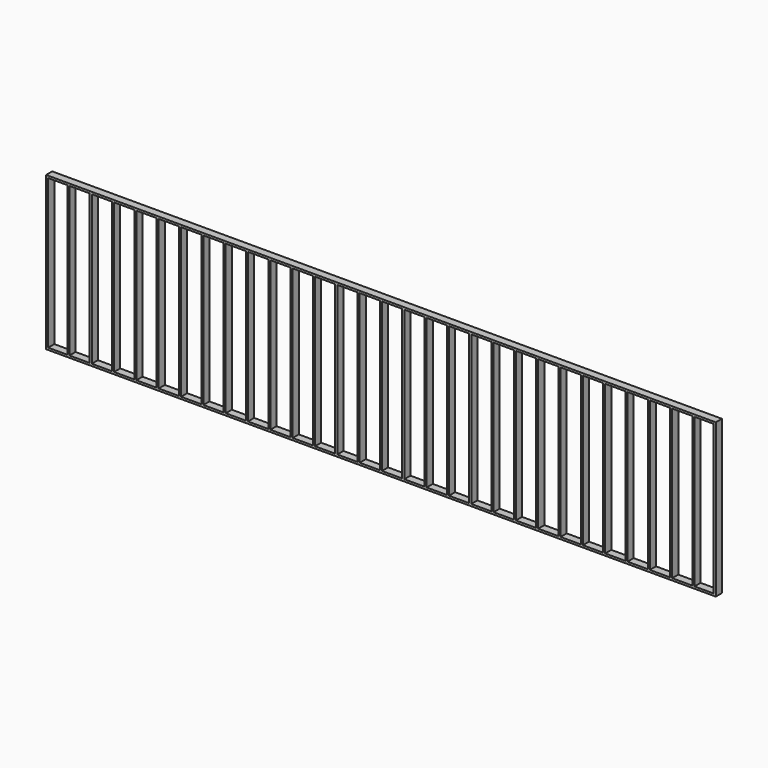
from build123d import *

# Parameters (mm, degrees)
F0_W     = 349.25
F0_H     = 2717.8
F0_W_2   = 368.3
F1_DEPTH = 139.7


with BuildPart() as f1:
    # F0 (on Front) → F1 (new body)
    with BuildSketch(Plane.XZ):
        Polygon((-6096, 1397), (-6096, -1397), (-2863.85, -1397), (-2825.75, -1397), (6096, -1397), (6096, 1397), align=None)
        with Locations((-5883.275, 0)):
            Rectangle(F0_W, F0_H, mode=Mode.SUBTRACT)
        with Locations((-5486.4, 0)):
            Rectangle(F0_W_2, F0_H, mode=Mode.SUBTRACT)
        with Locations((-5080, 0)):
            Rectangle(F0_W_2, F0_H, mode=Mode.SUBTRACT)
        with Locations((-4673.6, 0)):
            Rectangle(F0_W_2, F0_H, mode=Mode.SUBTRACT)
        with Locations((-4267.2, 0)):
            Rectangle(F0_W_2, F0_H, mode=Mode.SUBTRACT)
        with Locations((-3860.8, 0)):
            Rectangle(F0_W_2, F0_H, mode=Mode.SUBTRACT)
        with Locations((-3454.4, 0)):
            Rectangle(F0_W_2, F0_H, mode=Mode.SUBTRACT)
        with Locations((-3048, 0)):
            Rectangle(F0_W_2, F0_H, mode=Mode.SUBTRACT)
        with Locations((-2641.6, 0)):
            Rectangle(F0_W_2, F0_H, mode=Mode.SUBTRACT)
        with Locations((-2235.2, 0)):
            Rectangle(F0_W_2, F0_H, mode=Mode.SUBTRACT)
        with Locations((-1828.8, 0)):
            Rectangle(F0_W_2, F0_H, mode=Mode.SUBTRACT)
        with Locations((-1422.4, 0)):
            Rectangle(F0_W_2, F0_H, mode=Mode.SUBTRACT)
        with Locations((-1016, 0)):
            Rectangle(F0_W_2, F0_H, mode=Mode.SUBTRACT)
        with Locations((-609.6, 0)):
            Rectangle(F0_W_2, F0_H, mode=Mode.SUBTRACT)
        with Locations((-203.2, 0)):
            Rectangle(F0_W_2, F0_H, mode=Mode.SUBTRACT)
        with Locations((203.2, 0)):
            Rectangle(F0_W_2, F0_H, mode=Mode.SUBTRACT)
        with Locations((609.6, 0)):
            Rectangle(F0_W_2, F0_H, mode=Mode.SUBTRACT)
        with Locations((1016, 0)):
            Rectangle(F0_W_2, F0_H, mode=Mode.SUBTRACT)
        with Locations((1422.4, 0)):
            Rectangle(F0_W_2, F0_H, mode=Mode.SUBTRACT)
        with Locations((1828.8, 0)):
            Rectangle(F0_W_2, F0_H, mode=Mode.SUBTRACT)
        with Locations((2235.2, 0)):
            Rectangle(F0_W_2, F0_H, mode=Mode.SUBTRACT)
        with Locations((2641.6, 0)):
            Rectangle(F0_W_2, F0_H, mode=Mode.SUBTRACT)
        with Locations((3048, 0)):
            Rectangle(F0_W_2, F0_H, mode=Mode.SUBTRACT)
        with Locations((3454.4, 0)):
            Rectangle(F0_W_2, F0_H, mode=Mode.SUBTRACT)
        with Locations((3860.8, 0)):
            Rectangle(F0_W_2, F0_H, mode=Mode.SUBTRACT)
        with Locations((4267.2, 0)):
            Rectangle(F0_W_2, F0_H, mode=Mode.SUBTRACT)
        with Locations((4673.6, 0)):
            Rectangle(F0_W_2, F0_H, mode=Mode.SUBTRACT)
        with Locations((5080, 0)):
            Rectangle(F0_W_2, F0_H, mode=Mode.SUBTRACT)
        with Locations((5486.4, 0)):
            Rectangle(F0_W_2, F0_H, mode=Mode.SUBTRACT)
        with Locations((5883.275, 0)):
            Rectangle(F0_W, F0_H, mode=Mode.SUBTRACT)
    extrude(amount=F1_DEPTH)


solid = f1.part
